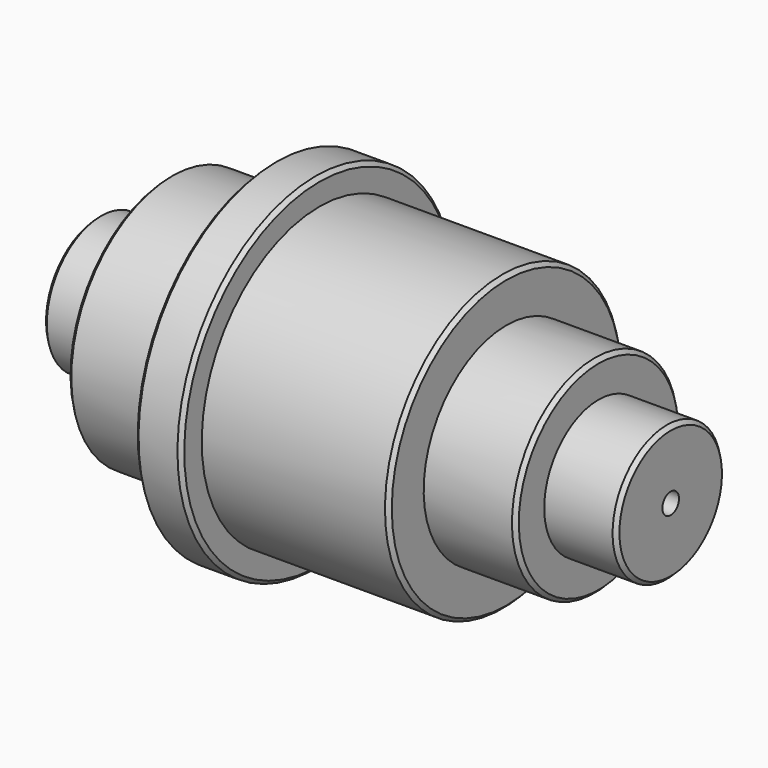
from build123d import *

# Parameters (mm, degrees)
F2_SIZE = 1.016
F3_SIZE = 1.016
F4_SIZE = 1.016
F5_SIZE = 1.016
F6_SIZE = 1.016
F7_SIZE = 1.016
F8_SIZE = 1.016


with BuildPart() as f1:
    # F0 (on Front) → F1 (revolve)
    with BuildSketch(Plane.XZ):
        Polygon((-80.1369994879, 0), (-80.1369994879, -15.3696453199), (73.2790008187, -15.3696453199), (73.2790008187, 0), (53.9750047028, 0), (53.9750047028, 9.5223551616), (29.3370001018, 9.5223551616), (29.3370001018, 21.2063547224), (-20.7010004669, 21.2063547224), (-20.7010004669, 28.0643533915), (-33.1469997764, 28.0643533915), (-33.1469997764, 15.6183550134), (-61.0870011151, 15.6183550134), (-61.0870011151, 0), align=None)
    revolve(axis=Axis((-3.302000463, 0, -18.16364564), (1, 0, 0)))

    # F2
    f2_edges = [f1.edges().sort_by_distance(p)[0] for p in [
        (-80.136999, 0, -36.327291),
    ]]
    chamfer(f2_edges, length=F2_SIZE)

    # F3
    f3_edges = [f1.edges().sort_by_distance(p)[0] for p in [
        (-61.087001, 0, -51.945646),
    ]]
    chamfer(f3_edges, length=F3_SIZE)

    # F4
    f4_edges = [f1.edges().sort_by_distance(p)[0] for p in [
        (-33.147, 0, -64.391645),
    ]]
    chamfer(f4_edges, length=F4_SIZE)

    # F5
    f5_edges = [f1.edges().sort_by_distance(p)[0] for p in [
        (-20.701, 0, -64.391645),
    ]]
    chamfer(f5_edges, length=F5_SIZE)

    # F6
    f6_edges = [f1.edges().sort_by_distance(p)[0] for p in [
        (29.337, 0, -57.533646),
    ]]
    chamfer(f6_edges, length=F6_SIZE)

    # F7
    f7_edges = [f1.edges().sort_by_distance(p)[0] for p in [
        (53.975005, 0, -45.849646),
    ]]
    chamfer(f7_edges, length=F7_SIZE)

    # F8
    f8_edges = [f1.edges().sort_by_distance(p)[0] for p in [
        (73.279001, 0, -36.327291),
    ]]
    chamfer(f8_edges, length=F8_SIZE)


solid = f1.part
